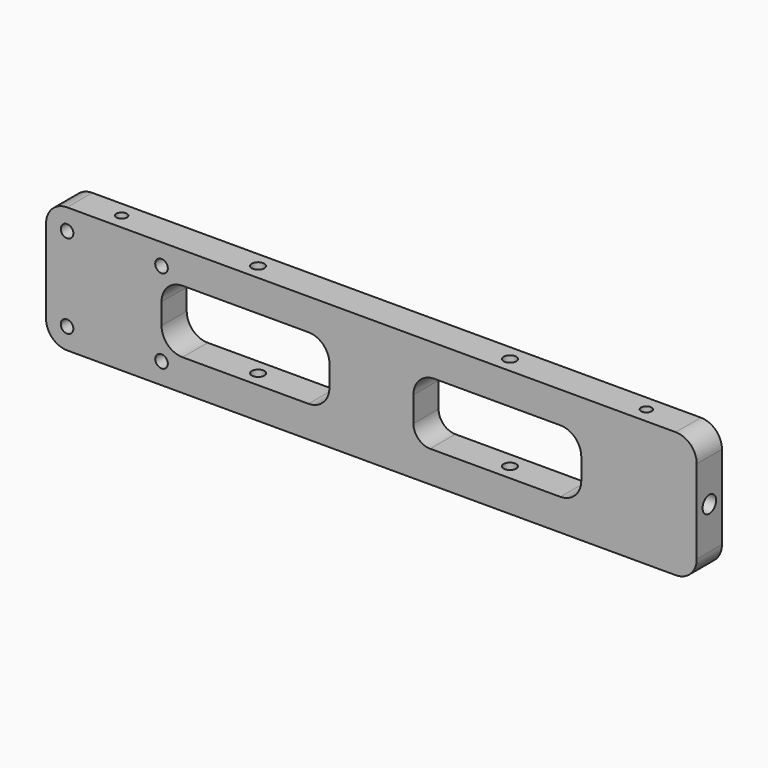
from build123d import *

# Parameters (mm, degrees)
F0_W      = 196.85
F0_H      = 38.1
F1_DEPTH  = 9.525
F2_R      = 6.35
F3_R      = 6.35
F4_W      = 50.8
F4_H      = 19.05
F5_DEPTH  = 25.4
F6_R      = 6.35
F7_R      = 6.35
F8_R      = 6.35
F9_R      = 6.35
F10_W     = 50.8
F10_H     = 19.05
F11_DEPTH = 25.4
F12_R     = 6.35
F13_R     = 5.08
F14_R     = 6.35
F15_R     = 6.35
F16_R     = 1.905
F18_DEPTH = 25.4
F20_R     = 1.5875
F21_DEPTH = 48.006
F22_R     = 1.5875
F23_DEPTH = 44.3738
F26_D     = 3.81
F27_D     = 5.1054
F27_DEPTH = 13.462
F27_TIP   = 1.5338169022
F28_D     = 5.1054
F28_DEPTH = 13.462
F28_TIP   = 1.5338169022
F29_R     = 6.35


with BuildPart() as f1:
    # F0 (on Front) → F1 (new body)
    with BuildSketch(Plane.XZ):
        with Locations((-98.425, 28.8397434607)):
            Rectangle(F0_W, F0_H)
    extrude(amount=F1_DEPTH)

    # F2
    f2_edges = [f1.edges().sort_by_distance(p)[0] for p in [
        (0, -4.7625, 9.789743),
    ]]
    fillet(f2_edges, radius=F2_R)

    # F3
    f3_edges = [f1.edges().sort_by_distance(p)[0] for p in [
        (-196.85, -4.7625, 9.789743),
    ]]
    fillet(f3_edges, radius=F3_R)

    # F4 (on face) → F5 (cut)
    with BuildSketch(Plane.XZ.offset(9.525)):
        with Locations((-136.525, 28.8397434607)):
            Rectangle(F4_W, F4_H)
    extrude(amount=-F5_DEPTH, mode=Mode.SUBTRACT)

    # F6
    f6_edges = [f1.edges().sort_by_distance(p)[0] for p in [
        (-161.925, -4.7625, 38.364743),
    ]]
    fillet(f6_edges, radius=F6_R)

    # F7
    f7_edges = [f1.edges().sort_by_distance(p)[0] for p in [
        (-161.925, -4.7625, 19.314743),
    ]]
    fillet(f7_edges, radius=F7_R)

    # F8
    f8_edges = [f1.edges().sort_by_distance(p)[0] for p in [
        (-111.125, -4.7625, 19.314743),
    ]]
    fillet(f8_edges, radius=F8_R)

    # F9
    f9_edges = [f1.edges().sort_by_distance(p)[0] for p in [
        (-111.125, -4.7625, 38.364743),
    ]]
    fillet(f9_edges, radius=F9_R)

    # F10 (on face) → F11 (cut)
    with BuildSketch(Plane.XZ.offset(9.525)):
        with Locations((-60.325, 28.8397434607)):
            Rectangle(F10_W, F10_H)
    extrude(amount=-F11_DEPTH, mode=Mode.SUBTRACT)

    # F12
    f12_edges = [f1.edges().sort_by_distance(p)[0] for p in [
        (-85.725, -4.7625, 38.364743),
    ]]
    fillet(f12_edges, radius=F12_R)

    # F13
    f13_edges = [f1.edges().sort_by_distance(p)[0] for p in [
        (-85.725, -4.7625, 19.314743),
    ]]
    fillet(f13_edges, radius=F13_R)

    # F14
    f14_edges = [f1.edges().sort_by_distance(p)[0] for p in [
        (-34.925, -4.7625, 19.314743),
    ]]
    fillet(f14_edges, radius=F14_R)

    # F15
    f15_edges = [f1.edges().sort_by_distance(p)[0] for p in [
        (-34.925, -4.7625, 38.364743),
    ]]
    fillet(f15_edges, radius=F15_R)

    # F16 (on face) → F18 (cut)
    with BuildSketch(Plane.XZ.offset(9.525)):
        with Locations((-190.5, 41.5397434607)):
            Circle(F16_R)
        with Locations((-161.925, 41.5397434607)):
            Circle(F16_R)
        with Locations((-161.925, 16.1594711244)):
            Circle(F16_R)
        with Locations((-190.5, 16.1397434607)):
            Circle(F16_R)
    extrude(amount=-F18_DEPTH, mode=Mode.SUBTRACT)

    # F20 (on face) → F21 (cut)
    with BuildSketch(Plane(origin=(0, 0, 9.7897434607), x_dir=(1, 0, 0), z_dir=(0, 0, -1))):
        with Locations((-177.8, 4.7625)):
            Circle(F20_R)
    extrude(amount=-F21_DEPTH, mode=Mode.SUBTRACT)

    # F22 (on face) → F23 (cut)
    with BuildSketch(Plane(origin=(0, 0, 9.7897434607), x_dir=(1, 0, 0), z_dir=(0, 0, -1))):
        with Locations((-19.05, 4.7625)):
            Circle(F22_R)
    extrude(amount=-F23_DEPTH, mode=Mode.SUBTRACT)

    # F26 (through all)
    with Locations(Plane(origin=(0, 0, 9.7897434607), x_dir=(1, 0, 0), z_dir=(0, 0, -1))):
        with Locations((-60.325, 4.7625), (-136.525, 4.7625)):
            Hole(F26_D / 2)

    # F27
    with Locations(Plane.YZ):
        with Locations((-4.7625, 28.8397434607)):
            Hole(F27_D / 2, depth=F27_DEPTH)
            with Locations((0, 0, -(F27_DEPTH + F27_TIP / 2))):  # 118° drill point
                Cone(0, F27_D / 2, F27_TIP, mode=Mode.SUBTRACT)

    # F28
    with Locations(Plane(origin=(-196.85, 0, 0), x_dir=(0, -1, 0), z_dir=(-1, 0, 0))):
        with Locations((4.7625, 28.8397434607)):
            Hole(F28_D / 2, depth=F28_DEPTH)
            with Locations((0, 0, -(F28_DEPTH + F28_TIP / 2))):  # 118° drill point
                Cone(0, F28_D / 2, F28_TIP, mode=Mode.SUBTRACT)

    # F29
    f29_edges = [f1.edges().sort_by_distance(p)[0] for p in [
        (-196.85, -4.7625, 47.889743),
        (0, -4.7625, 47.889743),
    ]]
    fillet(f29_edges, radius=F29_R)


solid = f1.part
